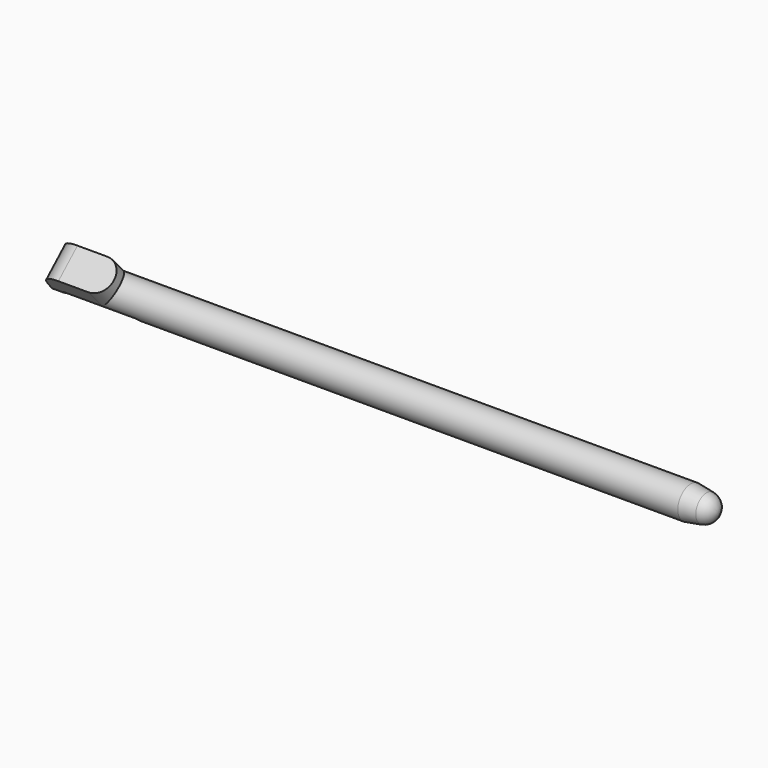
from build123d import *

# Parameters (mm, degrees)
SKETCH_R             = 2.35
PAD_DEPTH            = 96.25
PAD001_DEPTH         = 3.85
POCKET_DEPTH         = 5
PAD002_DEPTH         = 0.5
PAD002_DEPTH_BACK    = 0.5
POCKET001_DEPTH      = 10
POCKET002_DEPTH      = 100
POCKET002_DEPTH_BACK = -100
BODY_PLACEMENT_ANGLE = 42.17


with BuildPart() as part:
    # Sketch → Pad (new body)
    with BuildSketch(Plane.YZ):
        Circle(SKETCH_R)
    extrude(amount=PAD_DEPTH)

    # Sketch001 → Pad001 (join)
    with BuildSketch(Plane.XY):
        with BuildLine():
            Line((0, -2.35), (0, 2.35))
            Line((0, 2.35), (7.8, 2.35))
            ThreePointArc((7.8, -2.35), (10.15, 0), (7.8, 2.35))
            Line((7.8, -2.35), (0, -2.35))
        make_face()
    extrude(amount=PAD001_DEPTH)

    # Sketch002 (on Face7 of Pad001) → Pocket (cut)
    with BuildSketch(Plane(origin=(0, -2.35, 0), x_dir=(0, 0, -1), z_dir=(0, -1, 0))):
        with BuildLine():
            Line((-1.231194, 0.458762), (2.35, 0))
            Line((-3.85, 0), (2.35, 0))
            Line((-3.85, 3.434445), (-3.85, 0))
            ThreePointArc((-3.85, 3.434445), (-3.102064, 1.452474), (-1.231194, 0.458762))
        make_face()
    extrude(amount=-POCKET_DEPTH, mode=Mode.SUBTRACT)

    # Sketch003 → Pad002 (join, two sides)
    with BuildSketch(Plane.XZ) as pad002_sk:
        with BuildLine():
            add(Edge.make_bspline(
                [(8.526042, -2.35), (8.526042, -1.267468), (6.838542, -1.808734), (5.151042, -2.35), (6.838542, -2.891266), (8.526042, -3.432532), (8.526042, -2.35)],
                knots=[0, 0, 0, 2.094395, 2.094395, 4.18879, 4.18879, 6.283185, 6.283185, 6.283185], degree=2, weights=[1, 0.5, 1, 0.5, 1, 0.5, 1]))
        make_face()
    extrude(amount=PAD002_DEPTH)
    extrude(pad002_sk.sketch, amount=-PAD002_DEPTH_BACK)

    # Sketch004 (on Face2 of Pad002) → Pocket001 (cut)
    with BuildSketch(Plane(origin=(0, -2.35, 0), x_dir=(0, 0, -1), z_dir=(0, -1, 0))):
        with BuildLine():
            ThreePointArc((0, 2.401042), (0.675, 1.726042), (1.35, 2.401042))
            Line((1.35, 2.401042), (1.35, 12.401042))
            ThreePointArc((1.35, 12.401042), (0.675, 13.076042), (0, 12.401042))
            Line((0, 12.401042), (0, 2.401042))
        make_face()
    extrude(amount=-POCKET001_DEPTH, mode=Mode.SUBTRACT)

    # Sketch005 → Groove (revolve, cut)
    with BuildSketch(Plane.XZ):
        with BuildLine():
            Line((96.25, 2.35), (92.25, 2.35))
            Line((92.25, 2.35), (94.569769, 1.974271))
            ThreePointArc((96.25, 0), (95.773079, 1.296237), (94.569769, 1.974271))
            Line((97.25, 0), (96.25, 0))
            Line((97.25, 2.35), (97.25, 0))
            Line((96.25, 2.35), (97.25, 2.35))
        make_face()
    revolve(axis=Axis((0, 0, 0), (1, 0, 0)), mode=Mode.SUBTRACT)

    # Sketch006 → Pocket002 (cut, two sides)
    with BuildSketch(Plane.YZ) as pocket002_sk:
        Polygon((-1.720242, -1.601021), (-1.720242, -2.975), (-0.203555, -2.975), align=None)
    extrude(amount=-POCKET002_DEPTH, mode=Mode.SUBTRACT)
    extrude(pocket002_sk.sketch, amount=-POCKET002_DEPTH_BACK, mode=Mode.SUBTRACT)


with BuildPart() as part_1:
    # Body placement: moved
    add(part.part.rotate(Axis((0, 0, 0), (1, 0, 0)), BODY_PLACEMENT_ANGLE))


solid = part_1.part
